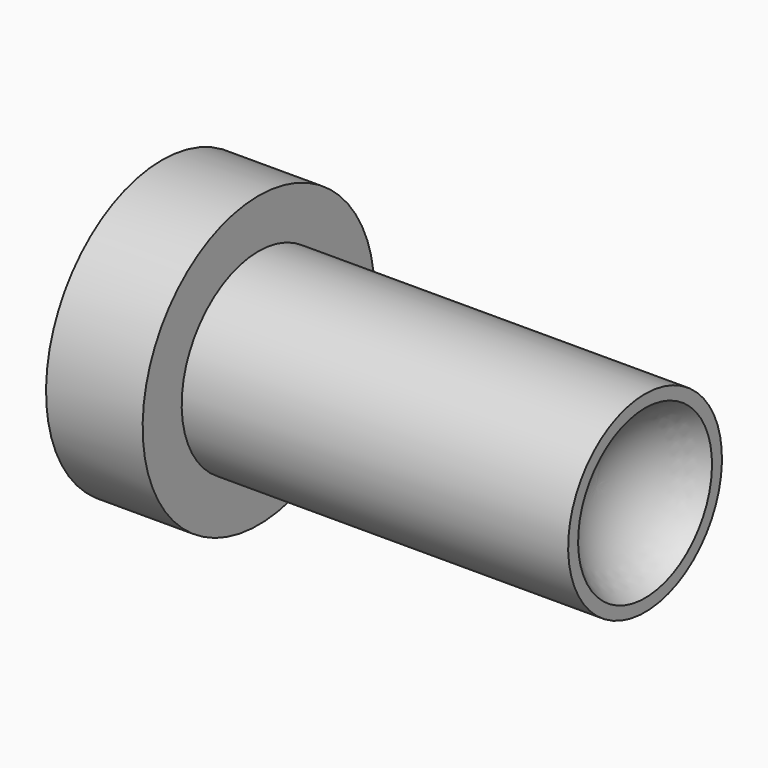
from build123d import *


with BuildPart() as f1:
    # F0 (on Front) → F1 (revolve)
    with BuildSketch(Plane.XZ):
        Polygon((0, 0.75), (0, 0), (0.5, 0), (0.5, 0.4975), (0.5, 0.75), align=None)
        with BuildLine():
            Line((0.5, 0.4975), (0.5, 0))
            Line((0.5, 0), (2.25, 0))
            ThreePointArc((2.25, 0), (2.316987, 0.25), (2.5, 0.433013))
            Line((2.5, 0.433013), (2.5, 0.4975))
            Line((2.5, 0.4975), (0.5, 0.4975))
        make_face()
    revolve(axis=Axis((1.5, 0, 0), (1, 0, 0)))


solid = f1.part
